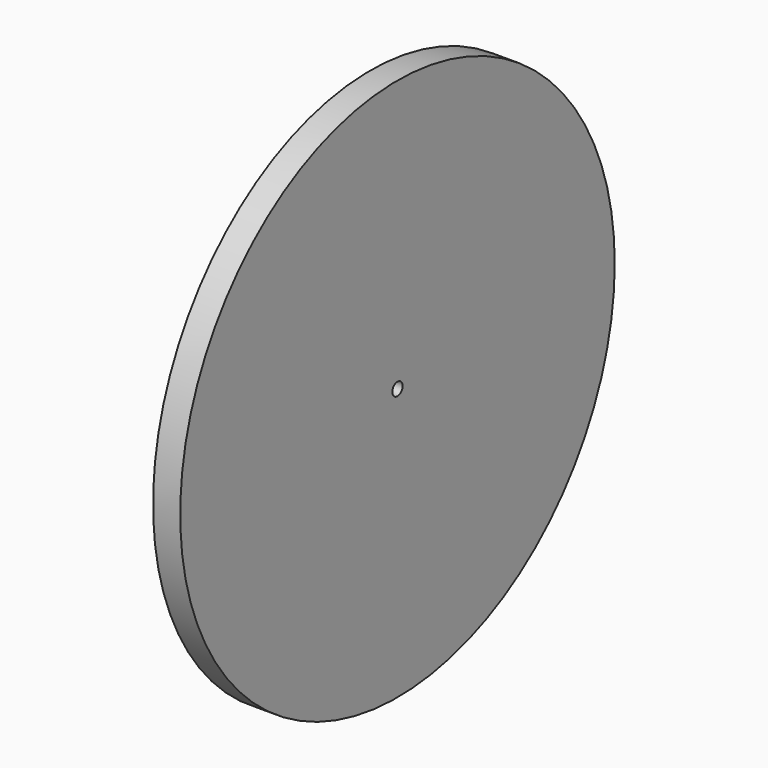
from build123d import *

# Parameters (mm, degrees)
F0_R     = 63.5
F1_DEPTH = 6.35
F2_D     = 3


with BuildPart() as f1:
    # F0 (on Right) → F1 (new body)
    with BuildSketch(Plane.YZ):
        Circle(F0_R)
    extrude(amount=F1_DEPTH)

    # F2 (through all)
    with Locations(Plane(origin=(0, 0, 0), x_dir=(0, 1, 0), z_dir=(-1, 0, 0))):
        with Locations((0, 0)):
            Hole(F2_D / 2)


solid = f1.part
